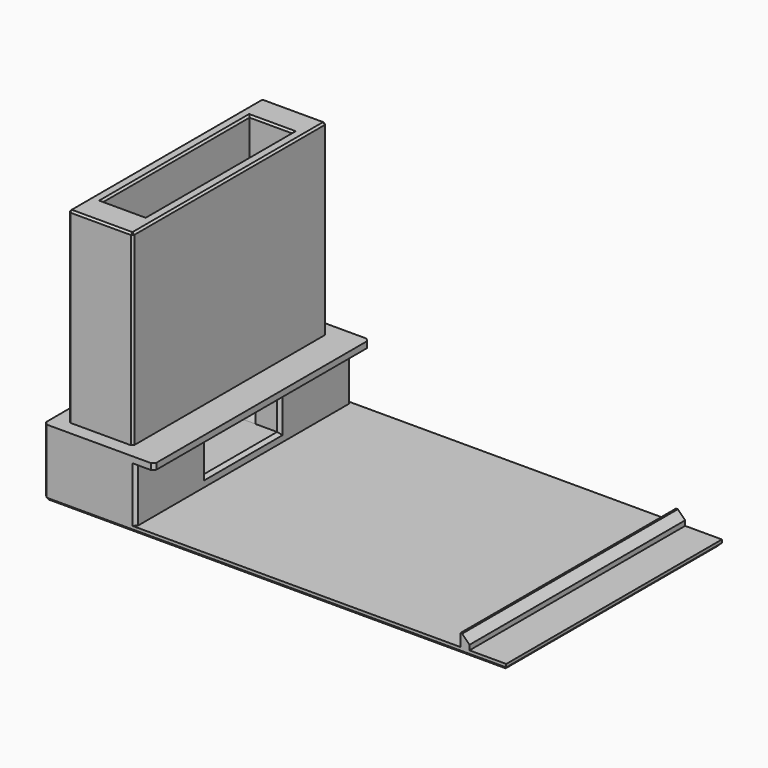
from build123d import *

# Parameters (mm, degrees)
SKETCH073_W             = 75.5
SKETCH073_H             = 44
PAD038_DEPTH            = 1
SKETCH074_W             = 15
SKETCH074_H             = 44
PAD039_DEPTH            = 9
SKETCH075_W             = 18
SKETCH075_H             = 44
PAD040_DEPTH            = 1
SKETCH076_W             = 10.5
SKETCH076_H             = 39.5
PAD041_DEPTH            = 30.5
SKETCH077_W             = 7
SKETCH077_H             = 30
POCKET027_DEPTH         = 39
SKETCH078_W             = 15
SKETCH078_H             = 6
POCKET028_DEPTH         = 15
SKETCH079_W             = 1.5
SKETCH079_H             = 44
PAD042_DEPTH            = 2
CHAMFER044_SIZE         = 1.2
FILLET011_R             = 7.5
CHAMFER045_SIZE         = 0.5
CHAMFER050_SIZE         = 0.3
BODY014_PLACEMENT_ANGLE = 180


with BuildPart() as part:
    # Sketch073 → Pad038 (new body)
    with BuildSketch(Plane.XY):
        with Locations((-30.25, 0)):
            Rectangle(SKETCH073_W, SKETCH073_H)
    extrude(amount=-PAD038_DEPTH)

    # Sketch074 (on Face5 of Pad038) → Pad039 (join)
    with BuildSketch(Plane.XY):
        Rectangle(SKETCH074_W, SKETCH074_H)
    extrude(amount=PAD039_DEPTH)

    # Sketch075 (on Face5 of Pad039) → Pad040 (join)
    with BuildSketch(Plane.XY.offset(9)):
        with Locations((-1.5, 0)):
            Rectangle(SKETCH075_W, SKETCH075_H)
    extrude(amount=PAD040_DEPTH)

    # Sketch076 (on Face7 of Pad040) → Pad041 (join)
    with BuildSketch(Plane.XY.offset(10)):
        Rectangle(SKETCH076_W, SKETCH076_H)
    extrude(amount=PAD041_DEPTH)

    # Sketch077 (on Face15 of Pad041) → Pocket027 (cut)
    with BuildSketch(Plane.XY.offset(40.5)):
        Rectangle(SKETCH077_W, SKETCH077_H)
    extrude(amount=-POCKET027_DEPTH, mode=Mode.SUBTRACT)

    # Sketch078 (on Face6 of Pocket027) → Pocket028 (cut)
    with BuildSketch(Plane.YZ.offset(7.5)):
        with Locations((0, 4.5)):
            Rectangle(SKETCH078_W, SKETCH078_H)
    extrude(amount=-POCKET028_DEPTH, mode=Mode.SUBTRACT)

    # Sketch079 (on Face4 of Pocket028) → Pad042 (join)
    with BuildSketch(Plane.XY):
        with Locations((-61.25, 0)):
            Rectangle(SKETCH079_W, SKETCH079_H)
    extrude(amount=PAD042_DEPTH)

    # Chamfer044
    chamfer044_edges = [part.edges().sort_by_distance(p)[0] for p in [
        (-62, 0, 2),
    ]]
    chamfer(chamfer044_edges, length=CHAMFER044_SIZE)

    # Fillet011
    fillet011_edges = [part.edges().sort_by_distance(p)[0] for p in [
        (0, 15, 1.5),
        (0, -15, 1.5),
    ]]
    fillet(fillet011_edges, radius=FILLET011_R)

    # Chamfer045
    chamfer045_edges = [part.edges().sort_by_distance(p)[0] for p in [
        (-7.5, 7.5, 4.5),
        (-7.5, 0, 7.5),
        (-7.5, -7.5, 4.5),
        (-7.5, 0, 1.5),
        (7.5, 7.5, 4.5),
        (7.5, 0, 1.5),
        (7.5, -7.5, 4.5),
        (7.5, 0, 7.5),
        (7.5, -22, 4.5),
        (7.5, 22, 4.5),
        (7.5, 0, -1),
        (-7.5, -22, 4.5),
        (-30.25, -22, -1),
        (-68, 0, -1),
        (-30.25, 22, -1),
        (-7.5, 22, 4.5),
        (-10.5, -22, 9.5),
        (-10.5, 22, 9.5),
    ]]
    chamfer(chamfer045_edges, length=CHAMFER045_SIZE)

    # Chamfer050
    chamfer050_edges = [part.edges().sort_by_distance(p)[0] for p in [
        (5.25, 19.75, 25.25),
        (-5.25, 19.75, 25.25),
        (-5.25, -19.75, 25.25),
        (5.25, -19.75, 25.25),
        (0, 19.75, 40.5),
        (-5.25, 0, 40.5),
        (5.25, 0, 40.5),
        (0, -19.75, 40.5),
        (-3.5, 0, 40.5),
        (0, -15, 40.5),
        (3.5, 0, 40.5),
        (0, 15, 40.5),
    ]]
    chamfer(chamfer050_edges, length=CHAMFER050_SIZE)


with BuildPart() as part_1:
    # Body014 placement: moved
    add(part.part.moved(Location((-106.5, -22, -136))).rotate(Axis((-106.5, -22, -136), (0, 0, 1)), BODY014_PLACEMENT_ANGLE))


solid = part_1.part
